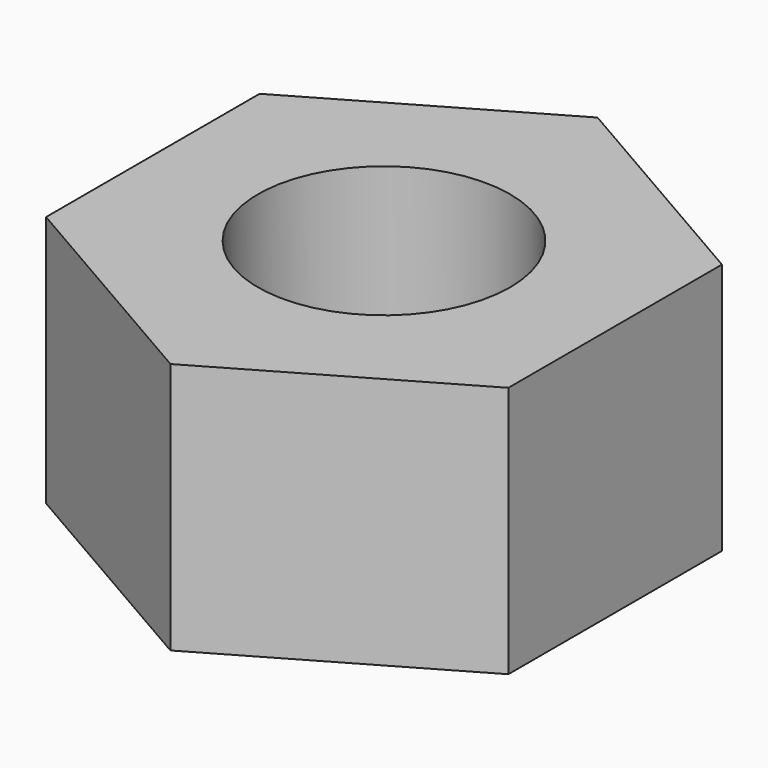
from build123d import *

# Parameters (mm, degrees)
F1_DEPTH = 3
F2_R     = 1.5
F3_DEPTH = 3.001


with BuildPart() as f1:
    # F0 (on Top) → F1 (new body)
    with BuildSketch(Plane.XY):
        Polygon((0, 3.175426), (-2.75, 1.587713), (-2.75, -1.587713), (0, -3.175426), (2.75, -1.587713), (2.75, 1.587713), align=None)
    extrude(amount=F1_DEPTH)

    # F2 (on face) → F3 (cut, through all)
    with BuildSketch(Plane.XY.offset(3)):
        Circle(F2_R)
    extrude(amount=-F3_DEPTH, mode=Mode.SUBTRACT)


solid = f1.part
